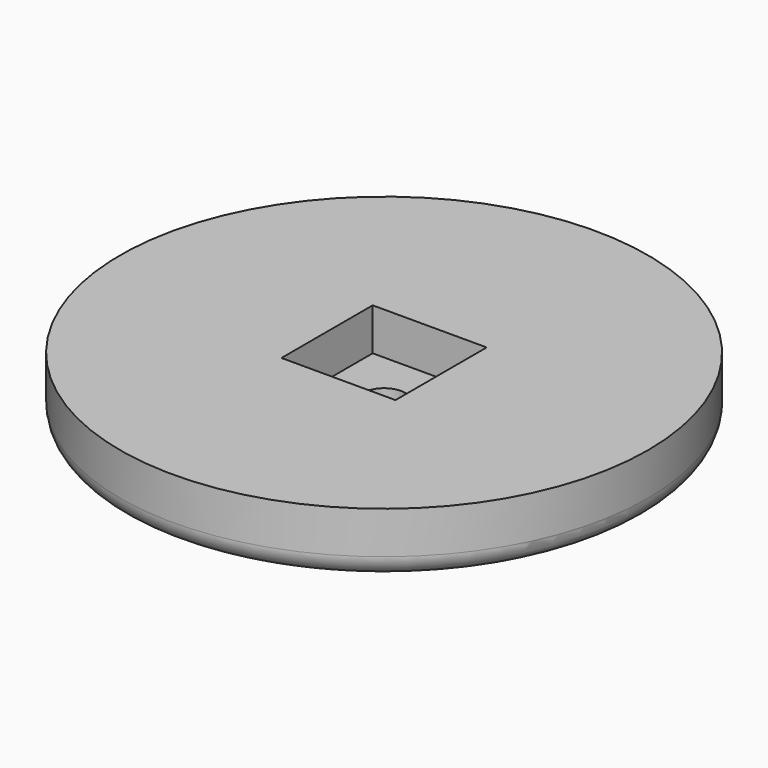
from build123d import *

# Parameters (mm, degrees)
SKETCH010_R     = 12.5
PAD003_DEPTH    = 1.5
SKETCH011_W     = 5.4
SKETCH011_H     = 5.4
POCKET005_DEPTH = 2
PAD004_DEPTH    = 2
SKETCH015_R     = 1
POCKET006_DEPTH = 5.001
SKETCH016_R     = 2
POCKET007_DEPTH = 2
FILLET001_R     = 1


with BuildPart() as part:
    # Sketch010 → Pad003 (new body, symmetric)
    with BuildSketch(Plane.XY.offset(-54)):
        Circle(SKETCH010_R)
    extrude(amount=PAD003_DEPTH, both=True)

    # Sketch011 (on Face3 of Pad003) → Pocket005 (cut)
    with BuildSketch(Plane.XY.offset(-52.5)):
        Rectangle(SKETCH011_W, SKETCH011_H)
    extrude(amount=-POCKET005_DEPTH, mode=Mode.SUBTRACT)

    # Sketch014 → Pad004 (join)
    with BuildSketch(Plane(origin=(0, 0, -55.5), x_dir=(1, 0, 0), z_dir=(0, 0, -1))):
        Polygon((5, 0), (2.5, 4.330127), (-2.5, 4.330127), (-5, 0), (-2.5, -4.330127), (2.5, -4.330127), align=None)
    extrude(amount=PAD004_DEPTH)

    # Sketch015 (on Face14 of Pad004) → Pocket006 (cut, through all)
    with BuildSketch(Plane(origin=(0, 0, -57.5), x_dir=(1, 0, 0), z_dir=(0, 0, -1))):
        Circle(SKETCH015_R)
    extrude(amount=-POCKET006_DEPTH, mode=Mode.SUBTRACT)

    # Sketch016 (on Face14 of Pocket006) → Pocket007 (cut)
    with BuildSketch(Plane(origin=(0, 0, -57.5), x_dir=(1, 0, 0), z_dir=(0, 0, -1))):
        Circle(SKETCH016_R)
    extrude(amount=-POCKET007_DEPTH, mode=Mode.SUBTRACT)

    # Fillet001
    fillet001_edges = [part.edges().sort_by_distance(p)[0] for p in [
        (-12.5, 0, -55.5),
        (0, 4.330127, -57.5),
        (3.75, 2.165064, -57.5),
        (3.75, -2.165064, -57.5),
        (0, -4.330127, -57.5),
        (-3.75, -2.165064, -57.5),
        (-3.75, 2.165064, -57.5),
    ]]
    fillet(fillet001_edges, radius=FILLET001_R)


solid = part.part
